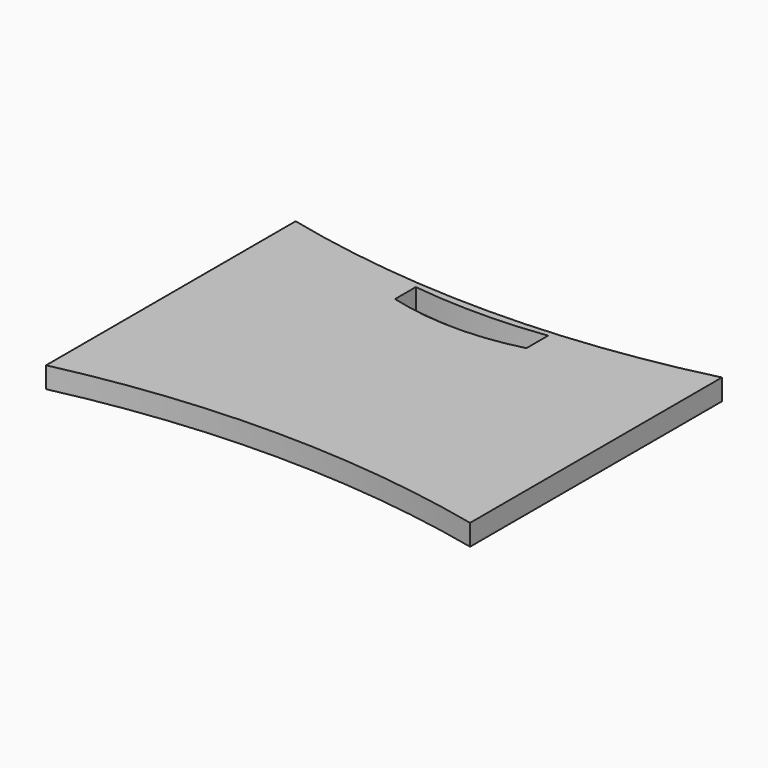
from build123d import *

# Parameters (mm, degrees)
F0_W     = 400
F0_H     = 350
F1_DEPTH = 19
F2_W     = 400
F2_H     = 350
F3_DEPTH = 19.001
F5_DEPTH = 19.001


with BuildPart() as f1:
    # F0 (on Top) → F1 (new body)
    with BuildSketch(Plane.XY):
        with Locations((0, -4.671676)):
            Rectangle(F0_W, F0_H)
    extrude(amount=F1_DEPTH)

    # F2 (on face) → F3 (cut, through all)
    with BuildSketch(Plane.XY.offset(19)):
        with Locations((0, -4.671676)):
            Rectangle(F2_W, F2_H)
        with BuildLine():
            ThreePointArc((192.000002, -145.333663), (0.340362, -123.303121), (-191.445097, -144.210055))
            Line((-191.445097, -144.210055), (-191.445097, 137.21716))
            ThreePointArc((-191.445097, 137.21716), (0.366935, 114.931669), (192.000002, 138.707012))
            Line((192.000002, 138.707012), (192.000002, -145.333663))
        make_face(mode=Mode.SUBTRACT)
    extrude(amount=-F3_DEPTH, mode=Mode.SUBTRACT)

    # F4 (on face) → F5 (cut, through all)
    with BuildSketch(Plane.XY.offset(19)):
        with BuildLine():
            ThreePointArc((56.528851, 112.057194), (-3.020095, 108.082536), (-62.591754, 111.70088))
            Line((-62.591754, 111.70088), (-62.591754, 88.262614))
            ThreePointArc((-62.591754, 88.262614), (-3.075748, 80.144421), (56.528851, 87.584293))
            Line((56.528851, 87.584293), (56.528851, 112.057194))
        make_face()
    extrude(amount=-F5_DEPTH, mode=Mode.SUBTRACT)


solid = f1.part
